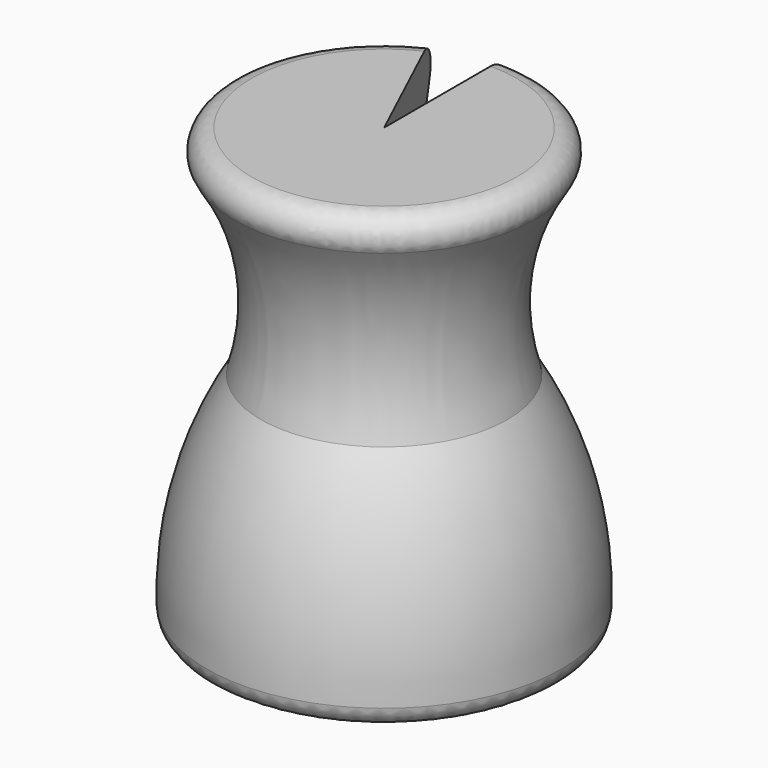
from build123d import *

# Parameters (mm, degrees)
F1_ANGLE = 335
F2_R     = 2.082692


with BuildPart() as f1:
    # F0 (on Right) → F1 (revolve)
    with BuildSketch(Plane.YZ):
        with BuildLine():
            Line((17.637674, 43.847844), (0, 43.847844))
            Line((0, 43.847844), (0, 0))
            Line((0, 0), (17.637674, 0))
            ThreePointArc((17.637674, 0), (16.761053, 11.513244), (12.316811, 22.170259))
            ThreePointArc((12.316811, 22.170259), (12.001861, 33.739372), (17.637674, 43.847844))
        make_face()
    revolve(axis=Axis((0, 0, 21.923922), (0, 0, -1)), revolution_arc=F1_ANGLE)

    # F2
    f2_edges = [f1.edges().sort_by_distance(p)[0] for p in [
        (3.817491, -17.21959, 43.847844),
        (3.817491, -17.21959, 0),
    ]]
    fillet(f2_edges, radius=F2_R)


solid = f1.part
